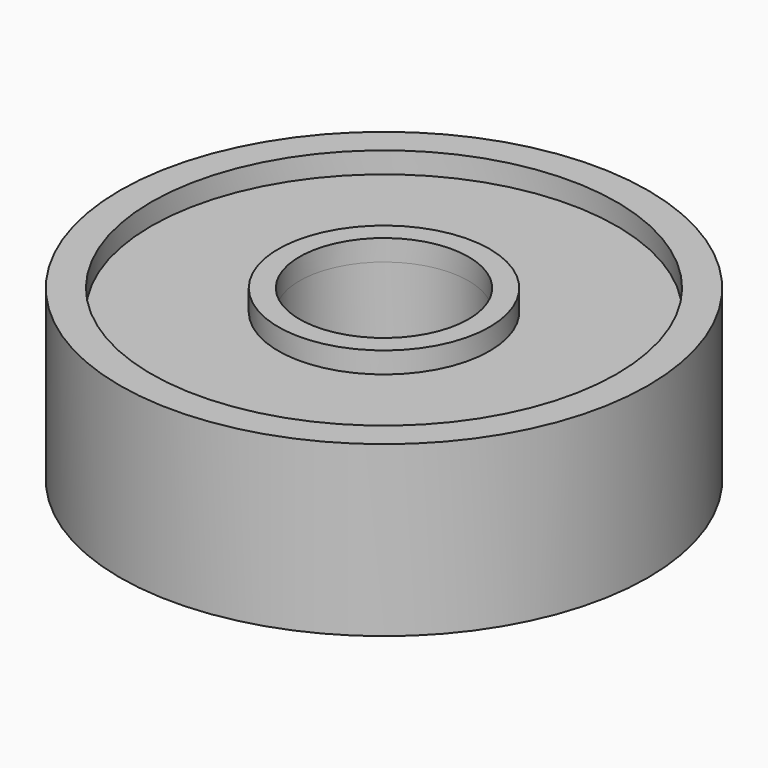
from build123d import *

# Parameters (mm, degrees)
F0_R      = 12.5
F0_R_2    = 11.5
F1_DEPTH  = 8
F3_R      = 4
F4_DEPTH  = 8.001
F2_R      = 11.0174189911
F5_DEPTH  = 1
F6_R      = 5
F6_R_2    = 4
F7_DEPTH  = 1
F9_R      = 270.8400585349
F9_R_2    = 127
F10_DEPTH = 1
F11_R     = 11.5
F11_R_2   = 5
F12_DEPTH = 1


with BuildPart() as f1:
    # F0 (on Top) → F1 (new body)
    with BuildSketch(Plane.XY):
        Circle(F0_R)
        Circle(F0_R_2, mode=Mode.SUBTRACT)
        Circle(F0_R_2)
    extrude(amount=F1_DEPTH)

    # F3 (on face) → F4 (cut, through all)
    with BuildSketch(Plane.XY.offset(8)):
        Circle(F3_R)
    extrude(amount=-F4_DEPTH, mode=Mode.SUBTRACT)

    # F2 (on face) → F5 (cut)
    with BuildSketch(Plane.XY.offset(8)):
        Circle(F2_R)
    extrude(amount=-F5_DEPTH, mode=Mode.SUBTRACT)

    # F6 (on face) → F7 (join)
    with BuildSketch(Plane.XY.offset(7)):
        Circle(F6_R)
        Circle(F6_R_2, mode=Mode.SUBTRACT)
    extrude(amount=F7_DEPTH)

    # F9 (on face) → F10 (cut)
    with BuildSketch(Plane(origin=(0, 0, 0), x_dir=(1, 0, 0), z_dir=(0, 0, -1))):
        Circle(F9_R)
        Circle(F9_R_2, mode=Mode.SUBTRACT)
    extrude(amount=-F10_DEPTH, mode=Mode.SUBTRACT)

    # F11 (on face) → F12 (cut)
    with BuildSketch(Plane(origin=(0, 0, 0), x_dir=(1, 0, 0), z_dir=(0, 0, -1))):
        Circle(F11_R)
        Circle(F11_R_2, mode=Mode.SUBTRACT)
    extrude(amount=-F12_DEPTH, mode=Mode.SUBTRACT)


solid = f1.part
